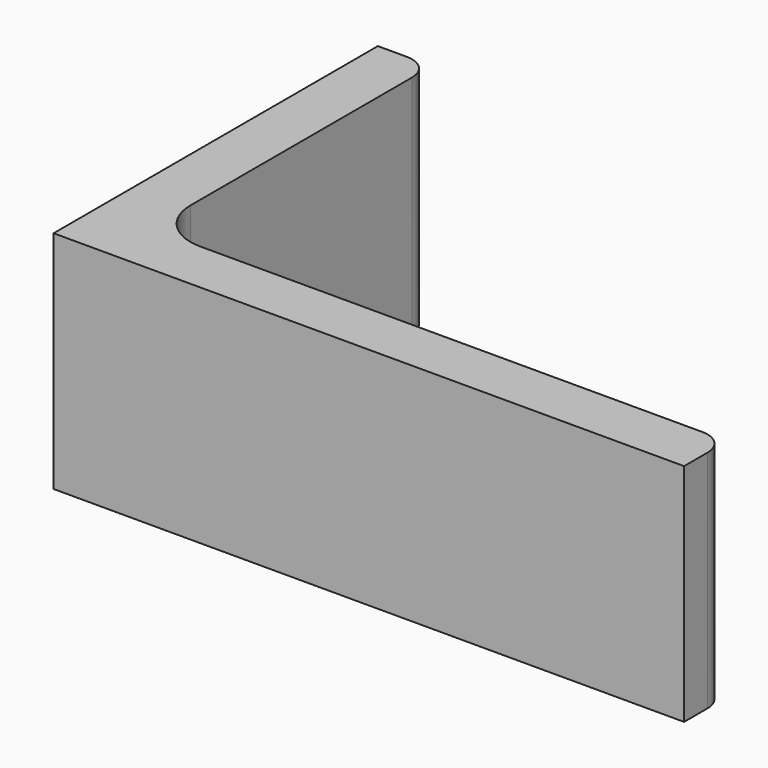
from build123d import *

# Parameters (mm, degrees)
EXTRUDE_DEPTH = 50


with BuildPart() as part:
    # Sketch → Extrude (new body)
    with BuildSketch(Plane.XY):
        with BuildLine():
            Line((0, 0), (140, 0))
            Line((140, 0), (140, 6.5))
            ThreePointArc((140, 6.5), (138.389087, 10.389087), (134.5, 12))
            Line((134.5, 12), (23, 12))
            ThreePointArc((12, 23), (15.221825, 15.221825), (23, 12))
            Line((12, 84.5), (12, 23))
            ThreePointArc((12, 84.5), (10.389087, 88.389087), (6.5, 90))
            Line((0, 90), (6.5, 90))
            Line((0, 0), (0, 90))
        make_face()
    extrude(amount=EXTRUDE_DEPTH)


solid = part.part
